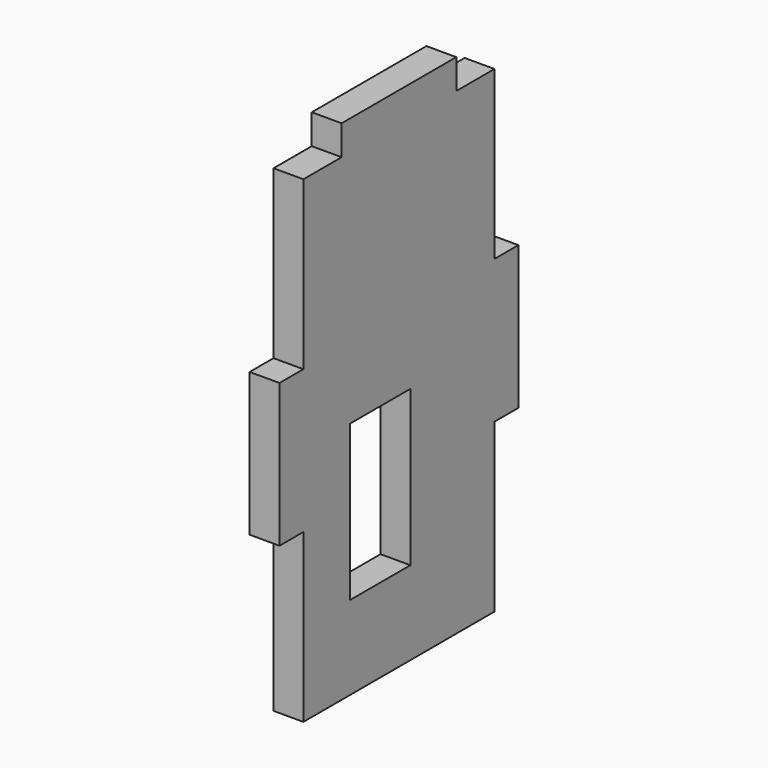
from build123d import *

# Parameters (mm, degrees)
F1_DEPTH = 3.175


with BuildPart() as f1:
    # F0 (on Right) → F1 (new body)
    with BuildSketch(Plane.YZ):
        Polygon((-12.7, -7.62), (-12.7, -25.4), (12.7, -25.4), (12.7, -7.62), (15.875, -7.62), (15.875, 7.62), (12.7, 7.62), (12.7, 25.4), (7.62, 25.4), (7.62, 28.575), (-7.62, 28.575), (-7.62, 25.4), (-12.7, 25.4), (-12.7, 7.62), (-15.875, 7.62), (-15.875, -7.62), align=None)
        Polygon((0, 0), (1.524, 0), (1.524, -16.51), (0.316484, -16.51), (-6.535861, -16.51), (-6.535861, 0), align=None, mode=Mode.SUBTRACT)
    extrude(amount=F1_DEPTH)


solid = f1.part
